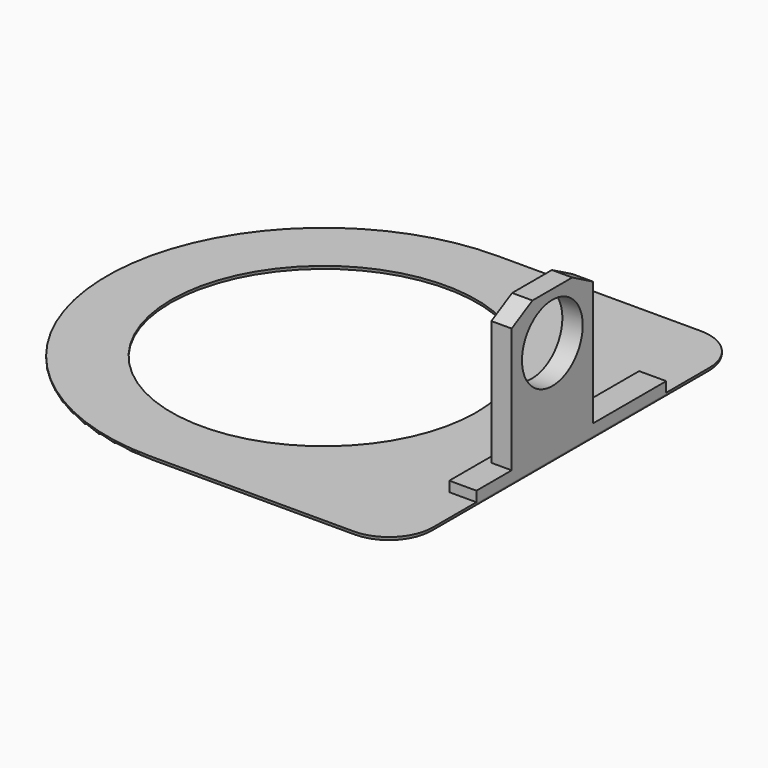
from build123d import *

# Parameters (mm, degrees)
SKETCH001_R     = 45
PAD_DEPTH       = 1.12
SKETCH_W        = 8
SKETCH_H        = 70
PAD003_DEPTH    = 3
SKETCH008_W     = 6
SKETCH008_H     = 30
PAD004_DEPTH    = 41
SKETCH009_R     = 11.2
POCKET003_DEPTH = 137.0009178097
POCKET004_DEPTH = 137.0009178097
FILLET_R        = 0.8


with BuildPart() as part:
    # Sketch001 → Pad (new body)
    with BuildSketch(Plane.XY):
        with BuildLine():
            Line((60, 64), (0, 64))
            ThreePointArc((0, 63.9999999999), (-63.9999178097, 0), (0, -63.9999999999))
            Line((60, -63.9999999999), (0, -63.9999999999))
            ThreePointArc((60, -64), (69.1923881554, -60.1923881554), (73, -51))
            Line((73, 51), (73, -51))
            ThreePointArc((73, 51), (69.1923881554, 60.1923881554), (60, 64))
        make_face()
        Circle(SKETCH001_R, mode=Mode.SUBTRACT)
    extrude(amount=-PAD_DEPTH)

    # Sketch → Pad003 (new body)
    with BuildSketch(Plane.XY):
        with Locations((69, 0)):
            Rectangle(SKETCH_W, SKETCH_H)
    extrude(amount=PAD003_DEPTH)

    # Sketch008 → Pad004 (new body)
    with BuildSketch(Plane.XY.offset(3)):
        with Locations((70, -7)):
            Rectangle(SKETCH008_W, SKETCH008_H)
    extrude(amount=PAD004_DEPTH)

    # Sketch009 → Pocket003 (cut, through all)
    with BuildSketch(Plane.YZ.offset(73)):
        with Locations((-7, 30)):
            Circle(SKETCH009_R)
    extrude(amount=-POCKET003_DEPTH, mode=Mode.SUBTRACT)

    # Sketch010 → Pocket004 (cut, through all)
    with BuildSketch(Plane.YZ.offset(73)):
        Polygon((-7, 48), (15, 36), (15, 54.3744), (-29, 54.3744), (-29, 36), align=None)
    extrude(amount=-POCKET004_DEPTH, mode=Mode.SUBTRACT)

    # Fillet
    fillet_edges = [part.edges().sort_by_distance(p)[0] for p in [
        (69.192388, 60.192388, -1.12),
        (30, 64, -1.12),
        (-63.999918, 0, -1.12),
        (30, -64, -1.12),
        (69.192388, -60.192388, -1.12),
        (73, 0, -1.12),
        (-45, 0, -1.12),
    ]]
    fillet(fillet_edges, radius=FILLET_R)


solid = part.part
